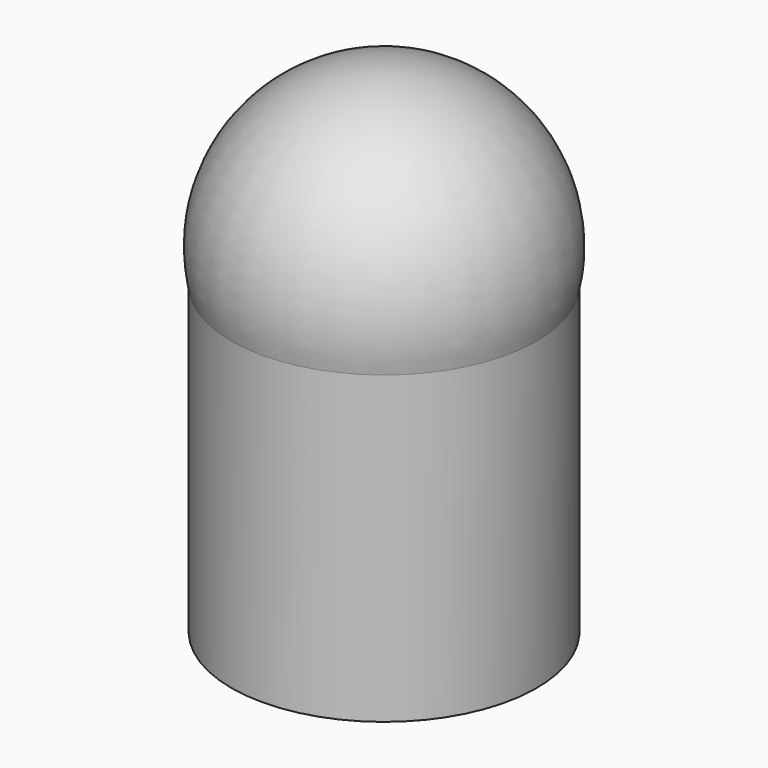
from build123d import *


with BuildPart() as f1:
    # F0 (on Right) → F1 (revolve)
    with BuildSketch(Plane.YZ):
        with BuildLine():
            Line((0, -3.333835), (0, 1.5367))
            ThreePointArc((0, 1.5367), (-1.198843, 0.961364), (-1.5, -0.333835))
            Line((-1.5, -0.333835), (-1.5, -3.333835))
            Line((-1.5, -3.333835), (0, -3.333835))
        make_face()
    revolve(axis=Axis((0, 0, -0.898568), (0, 0, -1)))


solid = f1.part
